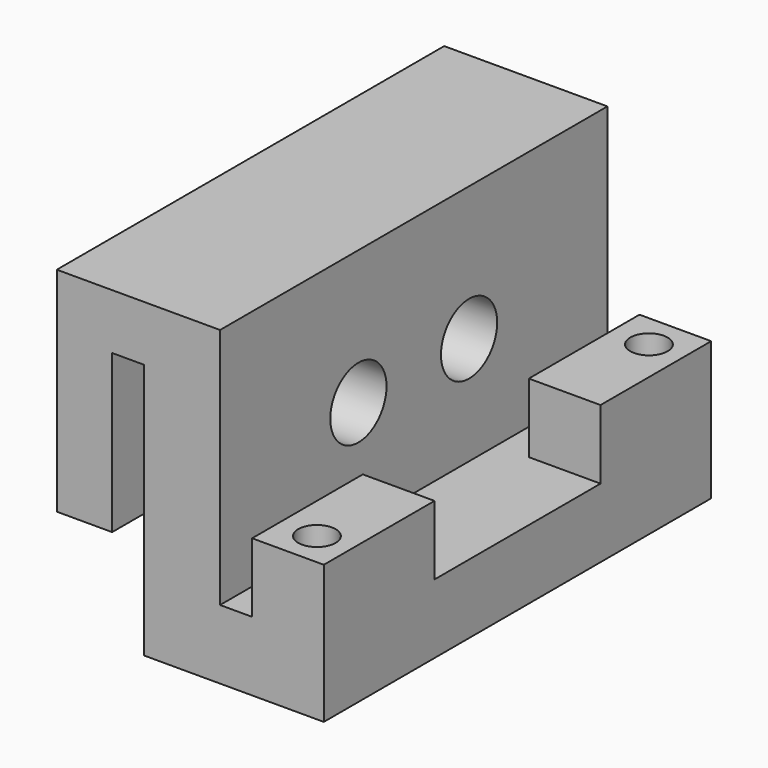
from build123d import *

# Parameters (mm, degrees)
F1_DEPTH = 35
F2_W     = 5.1841197739
F2_H     = 10
F2_R     = 1.35
F3_DEPTH = 5
F4_R     = 2.54
F5_DEPTH = 5.5
F6_DEPTH = 3.5


with BuildPart() as f1:
    # F0 (on Front) → F1 (new body)
    with BuildSketch(Plane.XZ):
        Polygon((-36.4558147092, 34.5085331884), (-36.4558147092, 19.1085331884), (-32.4558147092, 19.1085331884), (-32.4558147092, 30.5085331884), (-30.1558147092, 30.5085331884), (-30.1558147092, 12.0085331884), (-17.1558147092, 12.0085331884), (-17.1558147092, 17.0085331884), (-24.6558147092, 17.0085331884), (-24.6558147092, 34.5085331884), align=None)
    extrude(amount=F1_DEPTH)

    # F2 (on face) → F3 (join)
    with BuildSketch(Plane.XY.offset(17.0085331884)):
        with Locations((-19.7478745962, -5)):
            Rectangle(F2_W, F2_H)
        with Locations((-19.6558147092, -2.5)):
            Circle(F2_R, mode=Mode.SUBTRACT)
        with Locations((-19.7478745962, -30)):
            Rectangle(F2_W, F2_H)
        with Locations((-19.6558147092, -32.5)):
            Circle(F2_R, mode=Mode.SUBTRACT)
    extrude(amount=F3_DEPTH)

    # F4 (on face) → F5 (cut, through all)
    with BuildSketch(Plane.YZ.offset(-24.6558147092)):
        with Locations((-22.5, 24.8085331884)):
            Circle(F4_R)
        with Locations((-12.5, 24.8085331884)):
            Circle(F4_R)
    extrude(amount=-F5_DEPTH, mode=Mode.SUBTRACT)

    # F6 (cut): faces of the model
    f6_faces = [f1.faces().sort_by_distance(p)[0] for p in [
        (-19.6558147092, -32.5, 17.0085331884),
        (-19.6558147092, -2.5, 17.0085331884),
    ]]
    extrude(f6_faces, amount=-F6_DEPTH, mode=Mode.SUBTRACT)


solid = f1.part
